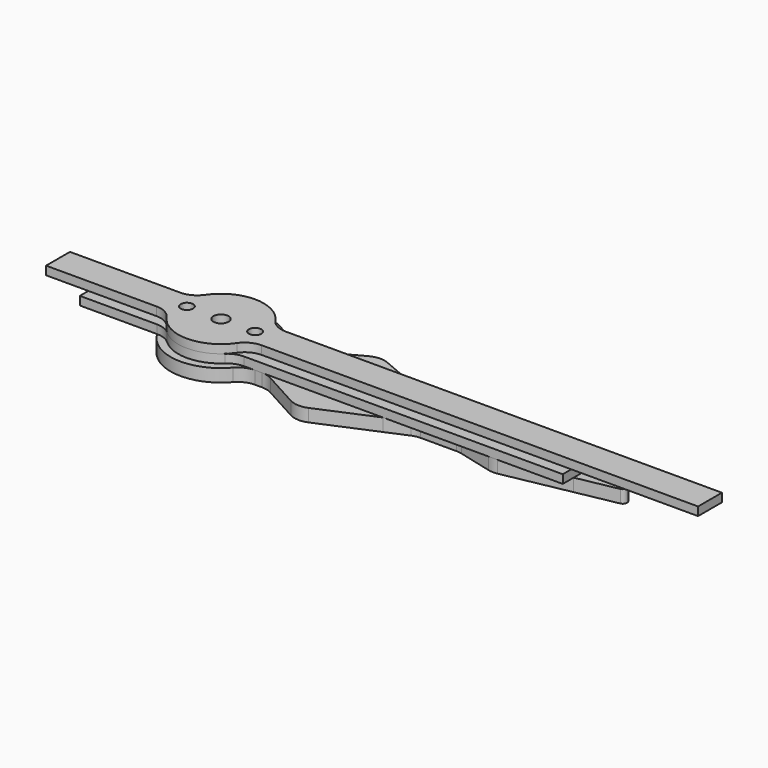
from build123d import *

# Parameters (mm, degrees)
F0_R     = 1.7859375
F1_DEPTH = 2
F2_R     = 1.7859375
F3_DEPTH = 2
F4_R     = 1.45
F5_DEPTH = 25
F6_R     = 5
F6_2_R   = 5
F7_R     = 1.45
F7_R_2   = 1.7859375
F8_DEPTH = 3
F9_R     = 5
F10_R    = 1


with BuildPart() as f1:
    # F0 (on Top) → F1 (new body)
    with BuildSketch(Plane.XY):
        with BuildLine():
            Line((-9.3674969976, 3.5), (-38.25, 3.5))
            Line((-38.25, 3.5), (-38.25, -3.5))
            Line((-38.25, -3.5), (-9.3674969976, -3.5))
            ThreePointArc((-9.3674969976, -3.5), (-10, 0), (-9.3674969976, 3.5))
        make_face()
        with BuildLine():
            ThreePointArc((9.3674969976, 3.5), (0, 10), (-9.3674969976, 3.5))
            Line((-9.3674969976, 3.5), (9.3674969976, 3.5))
        make_face()
        with BuildLine():
            Line((9.3674969976, 3.5), (-9.3674969976, 3.5))
            ThreePointArc((-9.3674969976, 3.5), (-10, 0), (-9.3674969976, -3.5))
            Line((-9.3674969976, -3.5), (9.3674969976, -3.5))
            ThreePointArc((9.3674969976, -3.5), (9.8406038935, -1.7783461452), (10, 0))
            ThreePointArc((10, 0), (9.8406038935, 1.7783461452), (9.3674969976, 3.5))
        make_face()
        Circle(F0_R, mode=Mode.SUBTRACT)
        with BuildLine():
            Line((114.75, 3.5), (9.3674969976, 3.5))
            ThreePointArc((9.3674969976, 3.5), (9.8406038935, 1.7783461452), (10, 0))
            ThreePointArc((10, 0), (9.8406038935, -1.7783461452), (9.3674969976, -3.5))
            Line((9.3674969976, -3.5), (114.75, -3.5))
            Line((114.75, -3.5), (114.75, 3.5))
        make_face()
        with BuildLine():
            Line((9.3674969976, -3.5), (-9.3674969976, -3.5))
            ThreePointArc((-9.3674969976, -3.5), (0, -10), (9.3674969976, -3.5))
        make_face()
    extrude(amount=F1_DEPTH)


with BuildPart() as f3:
    # F2 (on Top) → F3 (new body)
    with BuildSketch(Plane.XY):
        with BuildLine():
            Line((-8, 6), (-28.3333333333, 6))
            Line((-28.3333333333, 6), (-28.3333333333, -6))
            Line((-28.3333333333, -6), (-8, -6))
            ThreePointArc((-8, -6), (-10, 0), (-8, 6))
        make_face()
        with BuildLine():
            ThreePointArc((8, 6), (0, 10), (-8, 6))
            Line((-8, 6), (8, 6))
        make_face()
        with BuildLine():
            Line((8, 6), (-8, 6))
            ThreePointArc((-8, 6), (-10, 0), (-8, -6))
            Line((-8, -6), (8, -6))
            ThreePointArc((8, -6), (9.4868329805, -3.1622776602), (10, 0))
            ThreePointArc((10, 0), (9.4868329805, 3.1622776602), (8, 6))
        make_face()
        Circle(F2_R, mode=Mode.SUBTRACT)
        with BuildLine():
            Line((85, 6), (8, 6))
            ThreePointArc((8, 6), (9.4868329805, 3.1622776602), (10, 0))
            ThreePointArc((10, 0), (9.4868329805, -3.1622776602), (8, -6))
            Line((8, -6), (85, -6))
            Line((85, -6), (85, 6))
        make_face()
        with BuildLine():
            Line((8, -6), (-8, -6))
            ThreePointArc((-8, -6), (0, -10), (8, -6))
        make_face()
    extrude(amount=-F3_DEPTH)


with BuildPart() as f5_tool:
    # F4 (on face) → F5 (new body)
    with BuildSketch(Plane.XY.offset(2)):
        with Locations((8, 0)):
            Circle(F4_R)
        with Locations((-8, 0)):
            Circle(F4_R)
    extrude(amount=-F5_DEPTH)


with BuildPart() as f1_1:
    add(f1.part)

    # F5: cut by f5_tool
    add(f5_tool.part, mode=Mode.SUBTRACT)

    # F6
    f6_edges = [f1_1.edges().sort_by_distance(p)[0] for p in [
        (9.367497, -3.5, 1),
        (9.367497, 3.5, 1),
        (-9.367497, 3.5, 1),
        (-9.367497, -3.5, 1),
    ]]
    fillet(f6_edges, radius=F6_R)


with BuildPart() as f3_1:
    add(f3.part)

    # F5: cut by f5_tool
    add(f5_tool.part, mode=Mode.SUBTRACT)

    # F6#2
    f6_2_edges = [f3_1.edges().sort_by_distance(p)[0] for p in [
        (-8, -6, -1),
        (8, 6, -1),
        (8, -6, -1),
        (-8, 6, -1),
    ]]
    fillet(f6_2_edges, radius=F6_2_R)


with BuildPart() as f8:
    # F7 (on face) → F8 (new body)
    with BuildSketch(Plane(origin=(0, 0, -2), x_dir=(1, 0, 0), z_dir=(0, 0, -1))):
        with BuildLine():
            ThreePointArc((6.7986926848, 7.3333333333), (8.3722971688, 6.3452533187), (10.1980390272, 6))
            ThreePointArc((10.1980390272, 6), (0, 11.8321595662), (-10.1980390272, 6))
            ThreePointArc((-10.1980390272, 6), (-8.3722971688, 6.3452533187), (-6.7986926848, 7.3333333333))
            ThreePointArc((-6.7986926848, 7.3333333333), (0, 10), (6.7986926848, 7.3333333333))
        make_face()
        with BuildLine():
            ThreePointArc((-10.1980390272, -6), (0, -11.8321595662), (10.1980390272, -6))
            ThreePointArc((10.1980390272, -6), (8.3722971688, -6.3452533187), (6.7986926848, -7.3333333333))
            ThreePointArc((6.7986926848, -7.3333333333), (0, -10), (-6.7986926848, -7.3333333333))
            ThreePointArc((-6.7986926848, -7.3333333333), (-8.3722971688, -6.3452533187), (-10.1980390272, -6))
        make_face()
        with BuildLine():
            Line((-10.1980390272, -6), (-10.1980390272, 6))
            ThreePointArc((-10.1980390272, 6), (-11.8321595662, 0), (-10.1980390272, -6))
        make_face()
        with BuildLine():
            ThreePointArc((10.1980390272, -6), (11.4163221975, -3.1092744305), (11.8321595662, 0))
            ThreePointArc((11.8321595662, 0), (11.4163221975, 3.1092744305), (10.1980390272, 6))
            ThreePointArc((10.1980390272, 6), (8.3722971688, 6.3452533187), (6.7986926848, 7.3333333333))
            ThreePointArc((6.7986926848, 7.3333333333), (0, 10), (-6.7986926848, 7.3333333333))
            ThreePointArc((-6.7986926848, 7.3333333333), (-8.3722971688, 6.3452533187), (-10.1980390272, 6))
            Line((-10.1980390272, 6), (-10.1980390272, -6))
            ThreePointArc((-10.1980390272, -6), (-8.3722971688, -6.3452533187), (-6.7986926848, -7.3333333333))
            ThreePointArc((-6.7986926848, -7.3333333333), (0, -10), (6.7986926848, -7.3333333333))
            ThreePointArc((6.7986926848, -7.3333333333), (8.3722971688, -6.3452533187), (10.1980390272, -6))
        make_face()
        with Locations((-8, 0)):
            Circle(F7_R, mode=Mode.SUBTRACT)
        Circle(F7_R_2, mode=Mode.SUBTRACT)
        with Locations((8, 0)):
            Circle(F7_R, mode=Mode.SUBTRACT)
        Polygon((27.5687761605, 12.4966884032), (15.7419797033, 6), (42.8056608912, 6), align=None)
        Polygon((42.8056608912, -6), (15.7419797033, -6), (27.5687761605, -12.4966884032), align=None)
        Polygon((85, 2.8088164049), (85, 0), (85, -2.8088164049), (99.579103291, 0), align=None)
        with BuildLine():
            Line((11.8321595662, 0), (18.1609746069, 0))
            Line((18.1609746069, 0), (28.4762885422, 3.5125622526))
            Line((28.4762885422, 3.5125622526), (41.9174581766, 0))
            Line((41.9174581766, 0), (63.3295476437, 0))
            Line((63.3295476437, 0), (73.6448615789, 1.9496356836))
            Line((73.6448615789, 1.9496356836), (85, 0))
            Line((85, 0), (85, 2.8088164049))
            Line((85, 2.8088164049), (68.4362277389, 6))
            Line((68.4362277389, 6), (58.7179884315, 3.5087410361))
            Line((58.7179884315, 3.5087410361), (48.6484877765, 3.5087410361))
            Line((48.6484877765, 3.5087410361), (42.8056608912, 6))
            Line((42.8056608912, 6), (15.7419797033, 6))
            Line((15.7419797033, 6), (10.1980390272, 6))
            ThreePointArc((10.1980390272, 6), (11.4163221975, 3.1092744305), (11.8321595662, 0))
        make_face()
        with BuildLine():
            Line((28.4762885422, -3.5125622526), (18.1609746069, 0))
            Line((18.1609746069, 0), (11.8321595662, 0))
            ThreePointArc((11.8321595662, 0), (11.4163221975, -3.1092744305), (10.1980390272, -6))
            Line((10.1980390272, -6), (15.7419797033, -6))
            Line((15.7419797033, -6), (42.8056608912, -6))
            Line((42.8056608912, -6), (48.6484877765, -3.5087410361))
            Line((48.6484877765, -3.5087410361), (58.7179884315, -3.5087410361))
            Line((58.7179884315, -3.5087410361), (68.4362277389, -6))
            Line((68.4362277389, -6), (85, -2.8088164049))
            Line((85, -2.8088164049), (85, 0))
            Line((85, 0), (73.6448615789, -1.9496356836))
            Line((73.6448615789, -1.9496356836), (63.3295476437, 0))
            Line((63.3295476437, 0), (41.9174581766, 0))
            Line((41.9174581766, 0), (28.4762885422, -3.5125622526))
        make_face()
    extrude(amount=F8_DEPTH)

    # F9
    f9_edges = [f8.edges().sort_by_distance(p)[0] for p in [
        (10.198039, 6, -3.5),
        (15.74198, 6, -3.5),
        (10.198039, -6, -3.5),
        (15.74198, -6, -3.5),
        (27.568776, -12.496688, -3.5),
        (27.568776, 12.496688, -3.5),
        (48.648488, 3.508741, -3.5),
        (58.717988, 3.508741, -3.5),
        (68.436228, 6, -3.5),
        (48.648488, -3.508741, -3.5),
        (58.717988, -3.508741, -3.5),
        (68.436228, -6, -3.5),
    ]]
    fillet(f9_edges, radius=F9_R)

    # F10
    f10_edges = [f8.edges().sort_by_distance(p)[0] for p in [
        (99.579103, 0, -3.5),
    ]]
    fillet(f10_edges, radius=F10_R)


solid = Compound([f1_1.part, f3_1.part, f8.part])
